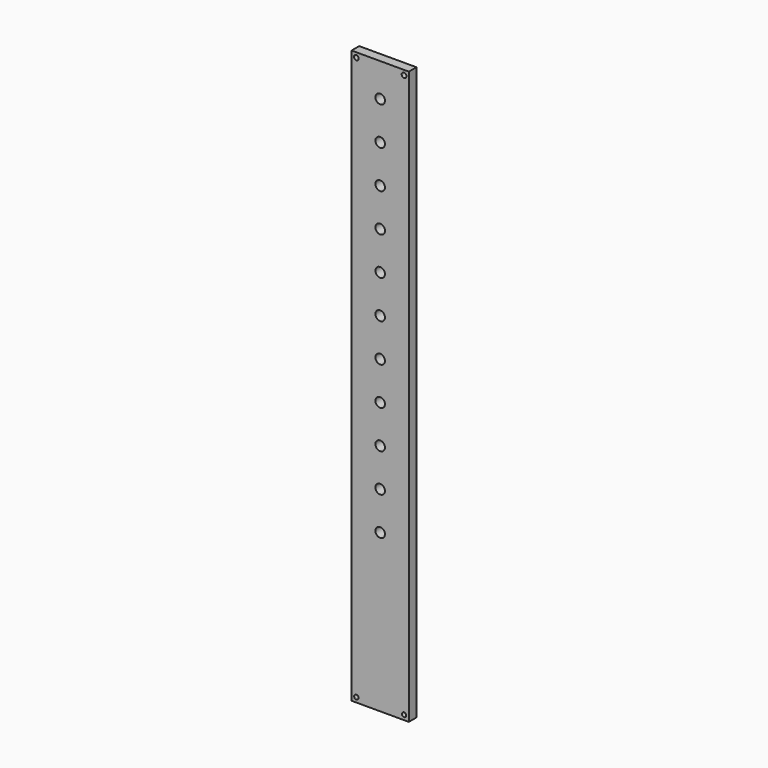
from build123d import *

# Parameters (mm, degrees)
F0_W     = 38.1
F0_H     = 381
F1_DEPTH = 6.35
F2_R     = 3.175
F3_DEPTH = 6.351
F4_R     = 1.5875
F5_DEPTH = 3.175
F6_R     = 1.473365
F6_R_2   = 1.414723
F7_DEPTH = 3.175


with BuildPart() as f1:
    # F0 (on Front) → F1 (new body)
    with BuildSketch(Plane.XZ):
        Rectangle(F0_W, F0_H)
    extrude(amount=F1_DEPTH)

    # F2 (on face) → F3 (cut, through all)
    with BuildSketch(Plane.XZ.offset(6.35)):
        with Locations((0, -85.725)):
            Circle(F2_R)
        with Locations((0, -60.325)):
            Circle(F2_R)
        with Locations((0, -34.925)):
            Circle(F2_R)
        with Locations((0, -9.525)):
            Circle(F2_R)
        with Locations((0, 15.875)):
            Circle(F2_R)
        with Locations((0, 41.275)):
            Circle(F2_R)
        with Locations((0, 66.675)):
            Circle(F2_R)
        with Locations((0, 92.075)):
            Circle(F2_R)
        with Locations((0, 117.475)):
            Circle(F2_R)
        with Locations((0, 142.875)):
            Circle(F2_R)
        with Locations((0, 168.275)):
            Circle(F2_R)
    extrude(amount=-F3_DEPTH, mode=Mode.SUBTRACT)

    # F4 (on face) → F5 (cut)
    with BuildSketch(Plane.XZ.offset(6.35)):
        with Locations((-15.875, 187.325)):
            Circle(F4_R)
        with Locations((15.875, 187.325)):
            Circle(F4_R)
    extrude(amount=-F5_DEPTH, mode=Mode.SUBTRACT)

    # F6 (on face) → F7 (cut)
    with BuildSketch(Plane.XZ.offset(6.35)):
        with Locations((-15.875, -187.325)):
            Circle(F6_R)
        with Locations((15.875, -187.325)):
            Circle(F6_R_2)
    extrude(amount=-F7_DEPTH, mode=Mode.SUBTRACT)


solid = f1.part
